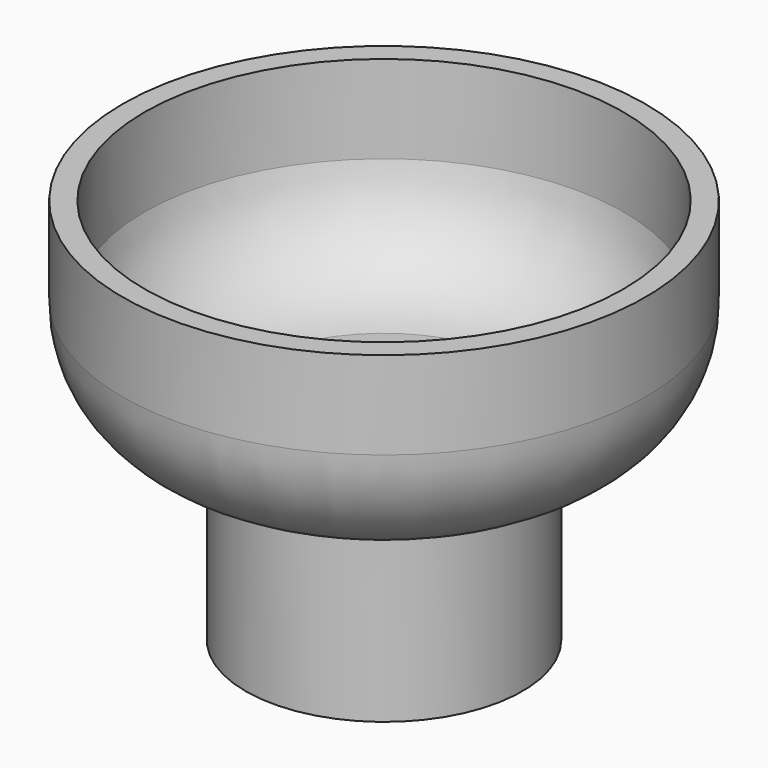
from build123d import *

# Parameters (mm, degrees)
F0_W   = 1.27
F0_H   = 1.6002
F0_H_2 = 12.712561


with BuildPart() as f1:
    # F0 (on Front) → F1 (revolve)
    with BuildSketch(Plane.XZ):
        with BuildLine():
            Line((-9.36625, 0), (-10.95375, 0))
            Line((-10.95375, 0), (-10.95375, -6.35))
            ThreePointArc((-10.95375, -6.35), (-8.349929, -12.636179), (-2.06375, -15.24))
            Line((-2.06375, -15.24), (-2.06375, -13.6398))
            ThreePointArc((-2.06375, -13.6398), (-6.880829, -11.16276), (-9.36625, -6.35))
            Line((-9.36625, -6.35), (-9.36625, 0))
        make_face()
        with Locations((-1.42875, -14.4399)):
            Rectangle(F0_W, F0_H)
        with Locations((-1.42875, -21.59628)):
            Rectangle(F0_W, F0_H_2)
    revolve(axis=Axis((7.9375, 0, -13.976281), (0, 0, -1)))


solid = f1.part
